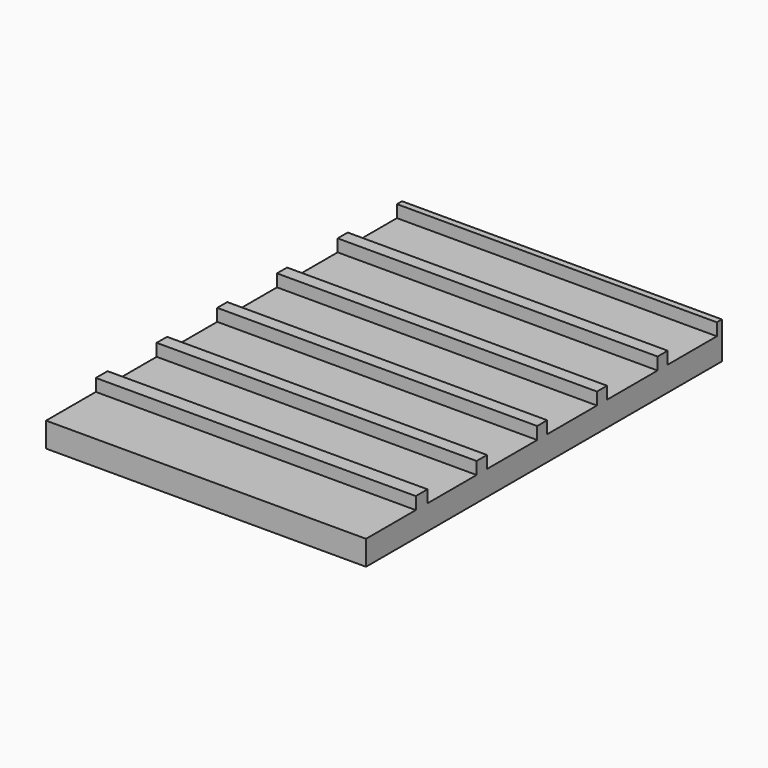
from build123d import *

# Parameters (mm, degrees)
F0_W      = 129.826464
F0_H      = 180.507004
F1_DEPTH  = 15
F2_W      = 129.826464
F2_H      = 25.231384
F4_DEPTH  = 5
F3_W      = 129.826464
F3_H      = 24.901012
F5_DEPTH  = 5
F7_W      = 193.91631
F7_H      = 25.443339
F8_DEPTH  = 5
F9_W      = 129.826464
F9_H      = 24.94248
F9_H_2    = 25.64016
F9_H_3    = 25.21283
F10_DEPTH = 5


with BuildPart() as f1:
    # F0 (on Top) → F1 (new body)
    with BuildSketch(Plane.XY):
        with Locations((-4.98702, 25.216296)):
            Rectangle(F0_W, F0_H)
    extrude(amount=F1_DEPTH)

    # F2 (on face) → F4 (cut)
    with BuildSketch(Plane.XY.offset(15)):
        with Locations((-4.98702, -52.421514)):
            Rectangle(F2_W, F2_H)
    extrude(amount=-F4_DEPTH, mode=Mode.SUBTRACT)

    # F3 (on face) → F5 (cut)
    with BuildSketch(Plane.XY.offset(15)):
        with Locations((-4.98702, -21.404932)):
            Rectangle(F3_W, F3_H)
    extrude(amount=-F5_DEPTH, mode=Mode.SUBTRACT)

    # F7 (on face) → F8 (cut)
    with BuildSketch(Plane.XY.offset(15)):
        with Locations((10.563256, 9.04997)):
            Rectangle(F7_W, F7_H)
    extrude(amount=-F8_DEPTH, mode=Mode.SUBTRACT)

    # F9 (on face) → F10 (cut)
    with BuildSketch(Plane.XY.offset(15)):
        with Locations((-4.98702, 100.438904)):
            Rectangle(F9_W, F9_H)
        with Locations((-4.98702, 70.019551)):
            Rectangle(F9_W, F9_H_2)
        with Locations((-4.98702, 39.465022)):
            Rectangle(F9_W, F9_H_3)
    extrude(amount=-F10_DEPTH, mode=Mode.SUBTRACT)


solid = f1.part
